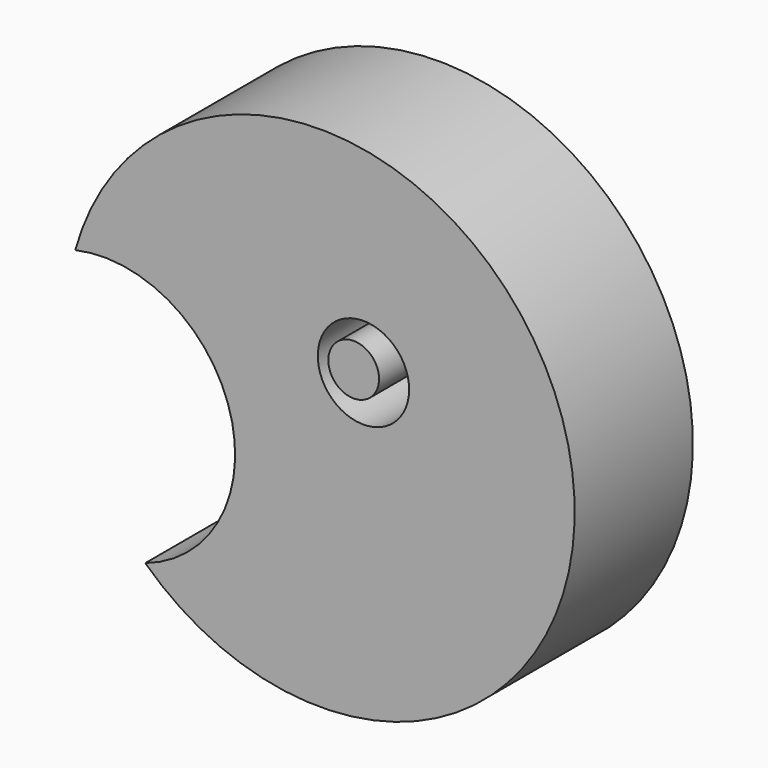
from build123d import *

# Parameters (mm, degrees)
F0_R     = 64.7262264748
F1_DEPTH = 377.0865797997
F0_R_2   = 116.561623304


with BuildPart() as f1:
    # F0 (on Front) → F1 (new body)
    with BuildSketch(Plane.XZ):
        with Locations((-125.7242560387, -109.355635941)):
            Circle(F0_R)
    extrude(amount=F1_DEPTH)


with BuildPart() as f1b:
    # F0 (on Front) → F1, piece 2 (new body)
    with BuildSketch(Plane.XZ):
        with BuildLine():
            ThreePointArc((-657.5901740627, -716.937780029), (45.4758205773, -842.3540002409), (438.312356026, -245.9393143654))
            ThreePointArc((438.312356026, -245.9393143654), (-122.9545263453, 397.2468891623), (-836.2136816928, -71.7631138953))
            ThreePointArc((-836.2136816928, -71.7631138953), (-553.7653222493, -137.4859582639), (-428.3094351106, -398.9384174347))
            ThreePointArc((-428.3094351106, -398.9384174347), (-491.6065911088, -594.957072073), (-657.5901740627, -716.937780029))
        make_face()
        with Locations((-100.7842943072, -108.1203520298)):
            Circle(F0_R_2, mode=Mode.SUBTRACT)
    extrude(amount=F1_DEPTH)


solid = Compound([f1.part, f1b.part])
